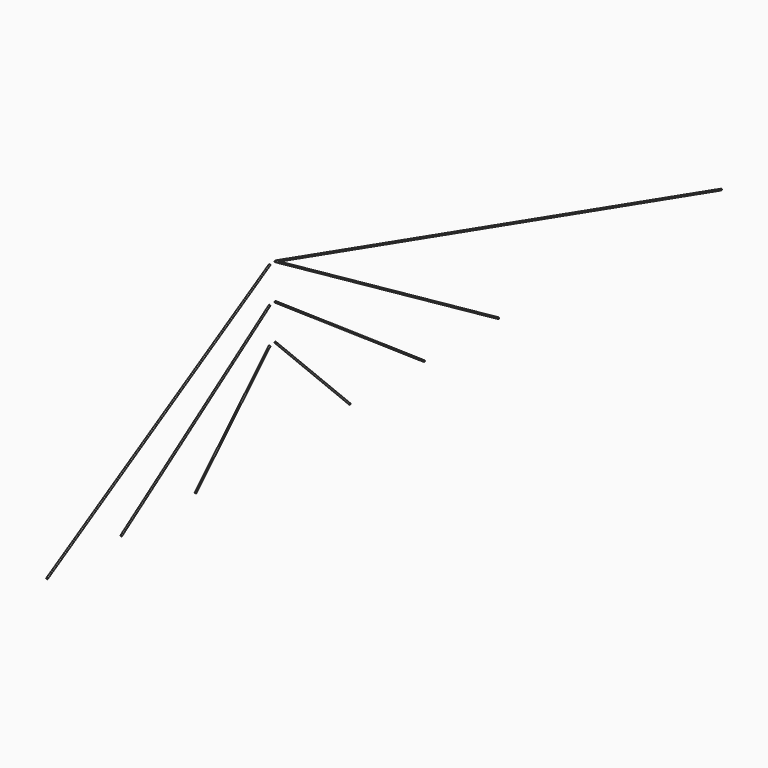
from build123d import *

# Parameters (mm, degrees)
F9_R  = 5
F12_R = 5
F15_R = 5
F18_R = 5


with BuildPart() as f10:
    # F10: sweep along a path in F7
    with BuildLine(Plane(origin=(0, 0, 0), x_dir=(0, -1, 0), z_dir=(-1, 0, 0))) as f10_path:
        Line((3900, 5800), (1950, 4657))
    # F9 (on line) → F10 (sweep)
    with BuildSketch(Plane(origin=(0, -5433.0313338419, 3184.5922126058), x_dir=(-1, 0, 0), z_dir=(0, 0.862717937, -0.5056854369))):
        with Locations((0, 3031.5908307196)):
            Circle(F9_R)
    sweep(path=f10_path.line)


with BuildPart() as f13:
    # F13: sweep along a path in F7
    with BuildLine(Plane(origin=(0, 0, 0), x_dir=(0, -1, 0), z_dir=(-1, 0, 0))) as f13_path:
        Line((3900, 5800), (0, 4657))
    # F12 (on line) → F13 (sweep)
    with BuildSketch(Plane(origin=(0, -5156.8990404657, 1511.368103398), x_dir=(-1, 0, 0), z_dir=(0, 0.9596354142, -0.2812469945))):
        with Locations((0, 4469.0221237398)):
            Circle(F12_R)
    sweep(path=f13_path.line)


with BuildPart() as f16:
    # F16: sweep along a path in F7
    with BuildLine(Plane(origin=(0, 0, 0), x_dir=(0, -1, 0), z_dir=(-1, 0, 0))) as f16_path:
        Line((3900, 5550), (2600, 4657))
    # F15 (on line) → F16 (sweep)
    with BuildSketch(Plane(origin=(0, -5239.9044161307, 3599.4112643113), x_dir=(-1, 0, 0), z_dir=(0, 0.8242638622, -0.5662058684))):
        with Locations((0, 2366.4615484225)):
            Circle(F15_R)
    sweep(path=f16_path.line)


with BuildPart() as f19:
    # F19: sweep along a path in F7
    with BuildLine(Plane(origin=(0, 0, 0), x_dir=(0, -1, 0), z_dir=(-1, 0, 0))) as f19_path:
        Line((3900, 5300), (3250, 4657))
    # F18 (on line) → F19 (sweep)
    with BuildSketch(Plane(origin=(0, -4620.9577378524, 4571.1935775986), x_dir=(-1, 0, 0), z_dir=(0, 0.710924474, -0.7032683643))):
        with Locations((0, 1025.1530915443)):
            Circle(F18_R)
    sweep(path=f19_path.line)


with BuildPart() as f21_1:
    # F21: instance of F19
    add(f19.part.mirror(Plane.XZ.offset(3925)))


with BuildPart() as f21_2:
    # F21: instance of F16
    add(f16.part.mirror(Plane.XZ.offset(3925)))


with BuildPart() as f21_3:
    # F21: instance of F10
    add(f10.part.mirror(Plane.XZ.offset(3925)))


solid = Compound([f10.part, f13.part, f16.part, f19.part, f21_1.part, f21_2.part, f21_3.part])
